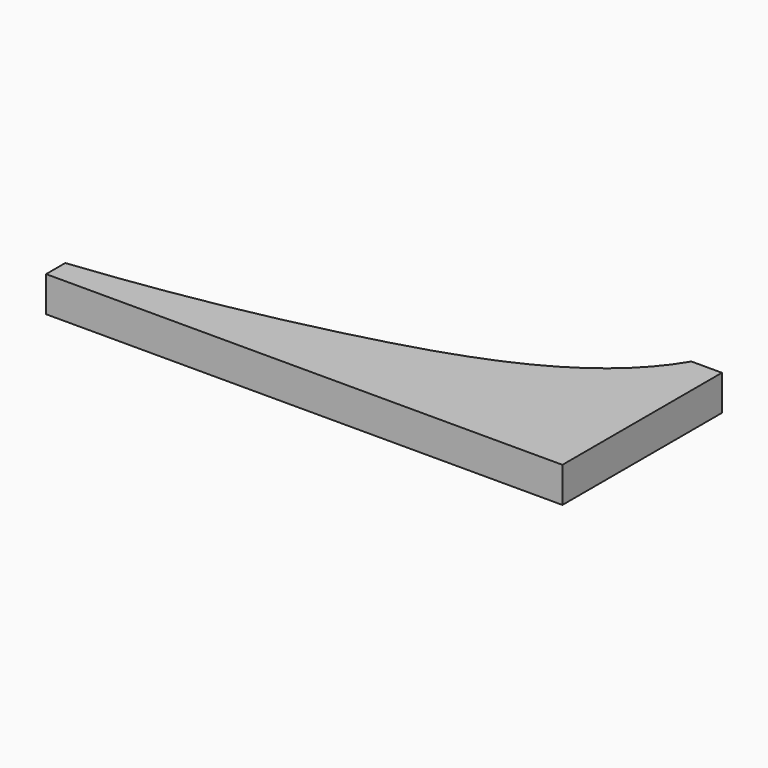
from build123d import *

# Parameters (mm, degrees)
F1_DEPTH = 5.08


with BuildPart() as f1:
    # F0 (on Top) → F1 (new body)
    with BuildSketch(Plane.XY):
        with BuildLine():
            Line((-174.7843325138, -31.1956964433), (-174.7843325138, -34.6367545426))
            Line((-174.7843325138, -34.6367545426), (-101.7393320799, -34.6367545426))
            Line((-101.7393320799, -34.6367545426), (-100.588105619, -34.6367545426))
            Line((-100.588105619, -34.6367545426), (-100.588105619, -5.986539647))
            Line((-100.588105619, -5.986539647), (-104.96840626, -5.986539647))
            add(Edge.make_bspline(
                [(-104.96840626, -5.986539647), (-111.2092956901, -16.541229561), (-138.6455943739, -25.7948594231), (-162.2404169958, -29.8019280524), (-174.7843325138, -31.1956964433)],
                knots=[0, 0, 0, 0, 0.4994028654, 1, 1, 1, 1], degree=3))
        make_face()
    extrude(amount=F1_DEPTH)


solid = f1.part
